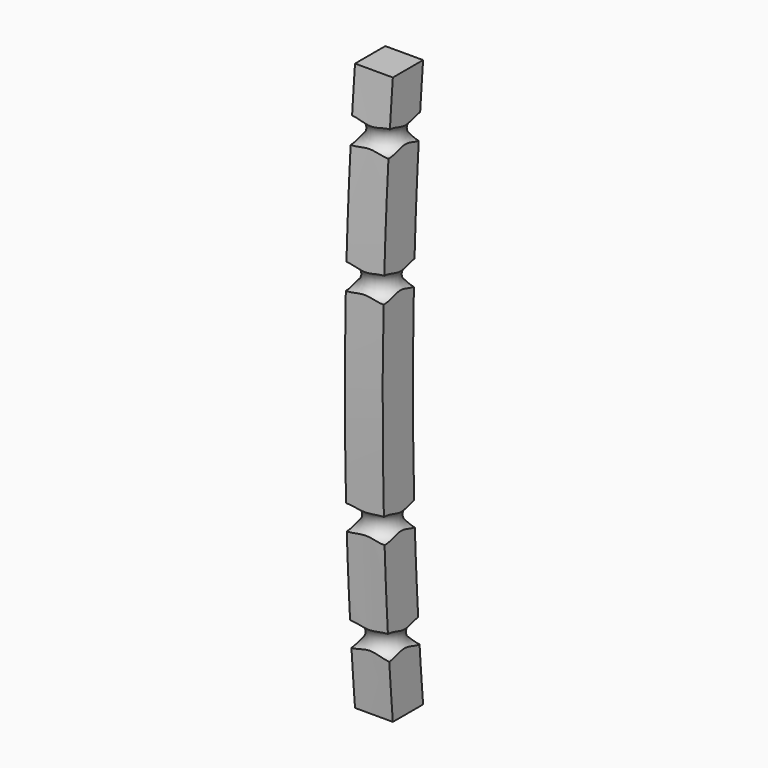
from build123d import *

# Parameters (mm, degrees)
TORUS004_R = 20
TORUS003_R = 20
TORUS002_R = 20
TORUS_R    = 20
PAD_DEPTH  = 60


with BuildPart() as torus004:
    # Torus004 → Torus004 (revolve)
    with BuildSketch(Plane(origin=(30, -35, 360), x_dir=(1, 0, 0), z_dir=(0, -1, 0))):
        with Locations((45, 0)):
            Circle(TORUS004_R)
    revolve(axis=Axis((30, -35, 360), (0, 0, 1)))


with BuildPart() as torus003:
    # Torus003 → Torus003 (revolve)
    with BuildSketch(Plane(origin=(30, -45, 160), x_dir=(1, 0, 0), z_dir=(0, -1, 0))):
        with Locations((45, 0)):
            Circle(TORUS003_R)
    revolve(axis=Axis((30, -45, 160), (0, 0, 1)))


with BuildPart() as torus002:
    # Torus002 → Torus002 (revolve)
    with BuildSketch(Plane(origin=(30, -43.333333, -176.666667), x_dir=(1, 0, 0), z_dir=(0, -1, 0))):
        with Locations((45, 0)):
            Circle(TORUS002_R)
    revolve(axis=Axis((30, -43.333333, -176.666667), (0, 0, 1)))


with BuildPart() as torus:
    # Torus → Torus (revolve)
    with BuildSketch(Plane(origin=(30, -36.666667, -343.333333), x_dir=(1, 0, 0), z_dir=(0, -1, 0))):
        with Locations((45, 0)):
            Circle(TORUS_R)
    revolve(axis=Axis((30, -36.666667, -343.333333), (0, 0, 1)))


with BuildPart() as cut005:
    # Sketch → Pad (new body)
    with BuildSketch(Plane.YZ):
        with BuildLine():
            ThreePointArc((0, 450), (-20.249495, 0), (0, -450))
            Line((-60, -450), (0, -450))
            ThreePointArc((-60, 450), (-80.249495, 0), (-60, -450))
            Line((-60, 450), (0, 450))
        make_face()
    extrude(amount=PAD_DEPTH)

    # Cut002: cut Torus
    add(torus.part, mode=Mode.SUBTRACT)

    # Cut003: cut Torus002
    add(torus002.part, mode=Mode.SUBTRACT)

    # Cut004: cut Torus003
    add(torus003.part, mode=Mode.SUBTRACT)

    # Cut005: cut Torus004
    add(torus004.part, mode=Mode.SUBTRACT)


solid = cut005.part
